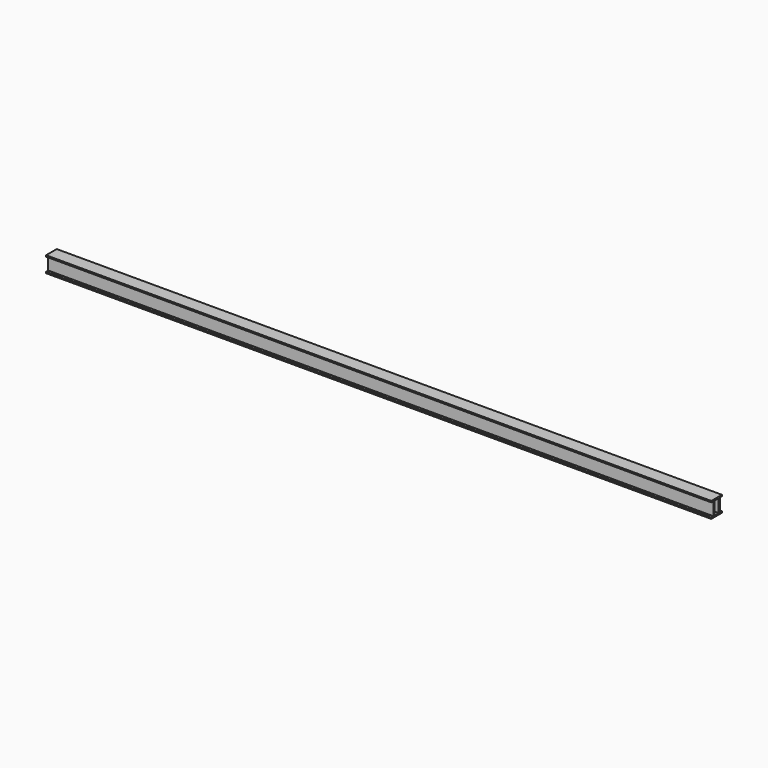
from build123d import *

# Parameters (mm, degrees)
F0_W     = 4
F0_H     = 9.9456192771
F1_DEPTH = 500


with BuildPart() as f1:
    # F0 (on Right) → F1 (new body)
    with BuildSketch(Plane.YZ):
        Polygon((-23.479051888, 22.0532231033), (-33.479051888, 22.0532231033), (-33.479051888, 21.0532231033), (-31.479051888, 21.0532231033), (-31.479051888, 11.1076038262), (-33.479051888, 11.1076038262), (-33.479051888, 10.1076038262), (-23.479051888, 10.1076038262), (-23.479051888, 11.1076038262), (-25.479051888, 11.1076038262), (-25.479051888, 21.0532231033), (-23.479051888, 21.0532231033), align=None)
        with Locations((-28.479051888, 16.0804134647)):
            Rectangle(F0_W, F0_H, mode=Mode.SUBTRACT)
    extrude(amount=F1_DEPTH)


solid = f1.part
